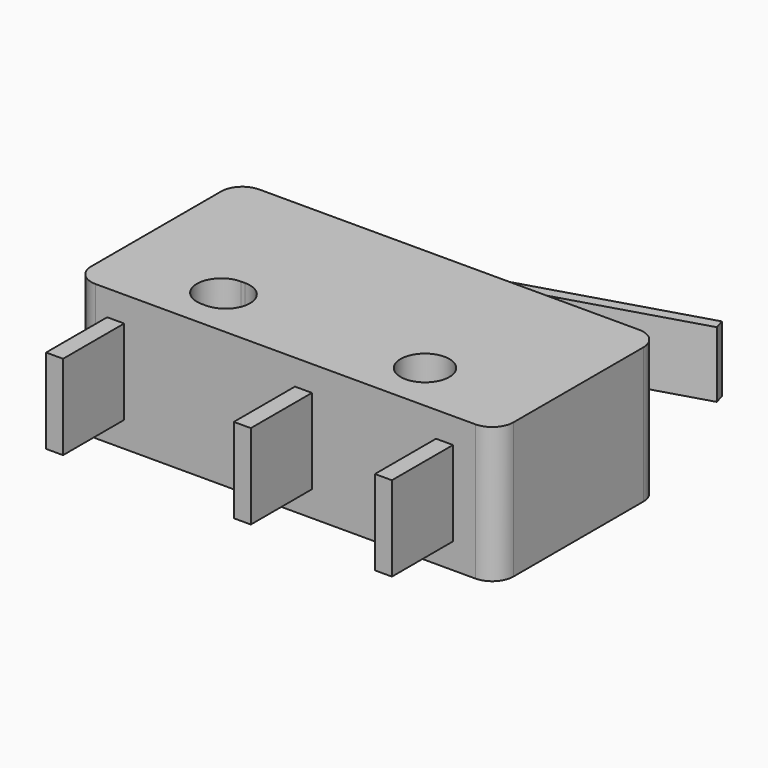
from build123d import *

# Parameters (mm, degrees)
F0_R     = 1.15
F1_DEPTH = 3.2
F3_DEPTH = 1.55
F4_W     = 0.8
F4_H     = 3.6
F5_DEPTH = 2
F7_DEPTH = 1.55


with BuildPart() as f1:
    # F0 (on Top) → F1 (new body, symmetric)
    with BuildSketch(Plane.XY):
        with BuildLine():
            ThreePointArc((0, 1), (0.292893, 0.292893), (1, 0))
            Line((1, 0), (18.9, 0))
            ThreePointArc((18.9, 0), (19.607107, 0.292893), (19.9, 1))
            Line((19.9, 1), (19.9, 8.65))
            ThreePointArc((19.9, 8.65), (19.607107, 9.357107), (18.9, 9.65))
            Line((18.9, 9.65), (1, 9.65))
            ThreePointArc((1, 9.65), (0.292893, 9.357107), (0, 8.65))
            Line((0, 8.65), (0, 1))
        make_face()
        with BuildLine():
            ThreePointArc((5.05, 1.2), (3.9, 2.35), (5.05, 3.5))
            Line((5.05, 3.5), (5.25, 3.5))
            ThreePointArc((5.25, 3.5), (6.4, 2.35), (5.25, 1.2))
            Line((5.25, 1.2), (5.05, 1.2))
        make_face(mode=Mode.SUBTRACT)
        with Locations((14.65, 2.35)):
            Circle(F0_R, mode=Mode.SUBTRACT)
    extrude(amount=F1_DEPTH, both=True)

    # F2 (on Top) → F3 (join, symmetric)
    with BuildSketch(Plane.XY):
        with BuildLine():
            Line((5.95, 9.65), (8.35, 9.65))
            ThreePointArc((8.35, 9.65), (7.15, 10.45), (5.95, 9.65))
        make_face()
    extrude(amount=F3_DEPTH, both=True)

    # F4 (on Top) → F5 (join, symmetric)
    with BuildSketch(Plane.XY):
        with Locations((17.45, -1.8)):
            Rectangle(F4_W, F4_H)
        with Locations((10.8, -1.8)):
            Rectangle(F4_W, F4_H)
        with Locations((1.95, -1.8)):
            Rectangle(F4_W, F4_H)
    extrude(amount=F5_DEPTH, both=True)

    # F6 (on Top) → F7 (join, symmetric)
    with BuildSketch(Plane.XY):
        Polygon((19.028934, 14.071202), (18.884875, 14.55), (1.64816, 9.363898), (1.792219, 8.8851), align=None)
    extrude(amount=F7_DEPTH, both=True)


solid = f1.part
